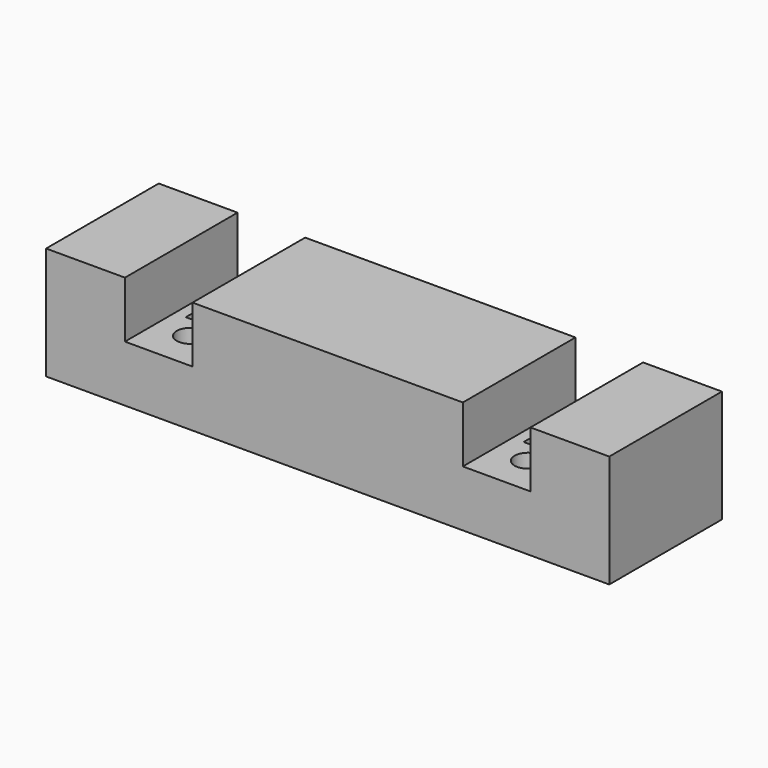
from build123d import *

# Parameters (mm, degrees)
F0_W       = 50
F0_H       = 10
F1_DEPTH   = 12.5
F2_W       = 6
F2_H       = 12.5
F3_DEPTH   = 5
F4_W       = 2
F4_H       = 7
F5_W       = 2
F5_H       = 7
F8_D       = 2.4
F8_ON_F5_D = 2.4


with BuildPart() as f1:
    # F0 (on Front) → F1 (new body)
    with BuildSketch(Plane.XZ):
        Rectangle(F0_W, F0_H)
    extrude(amount=F1_DEPTH)

    # F2 (on face) → F3 (cut)
    with BuildSketch(Plane.XY.offset(5)):
        with Locations((-15, -6.25)):
            Rectangle(F2_W, F2_H)
        with Locations((15, -6.25)):
            Rectangle(F2_W, F2_H)
    extrude(amount=-F3_DEPTH, mode=Mode.SUBTRACT)

    # F4 (on face) → F6 (revolve, cut)
    with BuildSketch(Plane.XY):
        with Locations((-14, -3.5)):
            Rectangle(F4_W, F4_H)
    revolve(axis=Axis((-15, -7.6616932638, 0), (0, -1, 0)), mode=Mode.SUBTRACT)

    # F5 (on face) → F7 (revolve, cut)
    with BuildSketch(Plane.XY):
        with Locations((16, -3.5)):
            Rectangle(F5_W, F5_H)
    revolve(axis=Axis((15, -9.4139035791, 0), (0, -1, 0)), mode=Mode.SUBTRACT)

    # F8 (through all)
    with Locations(Plane.XY):
        with Locations((-15, -9)):
            Hole(F8_D / 2)

    # F8 on F5 (through all)
    with Locations(Plane.XY):
        with Locations((15, -9)):
            Hole(F8_ON_F5_D / 2)


solid = f1.part
